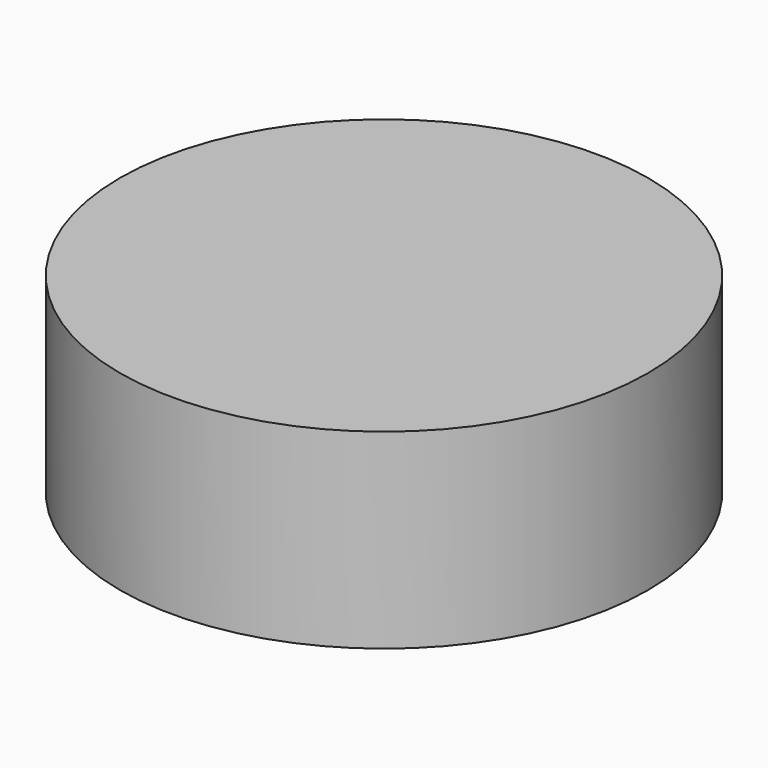
from build123d import *

# Parameters (mm, degrees)
CYLINDER_R     = 20.7391
CYLINDER_DEPTH = 15


with BuildPart() as part:
    # Cylinder → Cylinder (new body)
    with BuildSketch(Plane.XY.offset(-2.5)):
        Circle(CYLINDER_R)
    extrude(amount=CYLINDER_DEPTH)


solid = part.part
